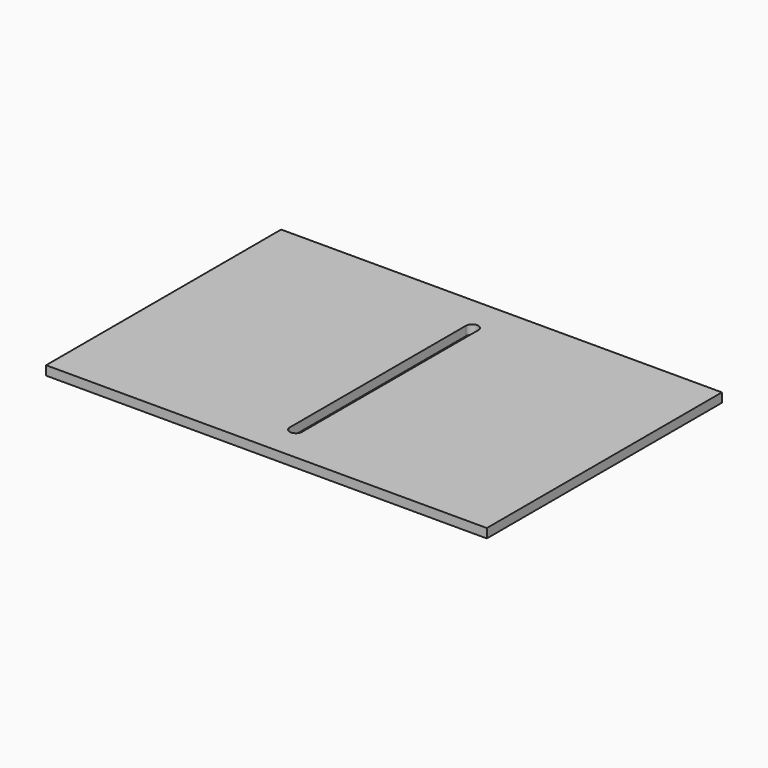
from build123d import *

# Parameters (mm, degrees)
F0_W     = 914.4
F0_H     = 609.6
F1_DEPTH = 19.05
F3_DEPTH = 25.4


with BuildPart() as f1:
    # F0 (on Top) → F1 (new body)
    with BuildSketch(Plane.XY):
        Rectangle(F0_W, F0_H)
    extrude(amount=F1_DEPTH)

    # F2 (on face) → F3 (cut)
    with BuildSketch(Plane.XY.offset(19.05)):
        with BuildLine():
            Line((0, 228.6), (12.7, 228.6))
            ThreePointArc((12.7, 228.6), (0, 241.3), (-12.7, 228.6))
            Line((-12.7, 228.6), (0, 228.6))
        make_face()
        with BuildLine():
            ThreePointArc((-12.7, 228.6), (0, 215.9), (12.7, 228.6))
            Line((12.7, 228.6), (0, 228.6))
            Line((0, 228.6), (-12.7, 228.6))
        make_face()
        with BuildLine():
            ThreePointArc((-12.7, -228.6), (0, -215.9), (12.7, -228.6))
            Line((12.7, -228.6), (12.7, 228.6))
            ThreePointArc((12.7, 228.6), (0, 215.9), (-12.7, 228.6))
            Line((-12.7, 228.6), (-12.7, -228.6))
        make_face()
        with BuildLine():
            Line((0, -228.6), (12.7, -228.6))
            ThreePointArc((12.7, -228.6), (0, -215.9), (-12.7, -228.6))
            Line((-12.7, -228.6), (0, -228.6))
        make_face()
        with BuildLine():
            ThreePointArc((-12.7, -228.6), (0, -241.3), (12.7, -228.6))
            Line((12.7, -228.6), (0, -228.6))
            Line((0, -228.6), (-12.7, -228.6))
        make_face()
    extrude(amount=-F3_DEPTH, mode=Mode.SUBTRACT)


solid = f1.part
